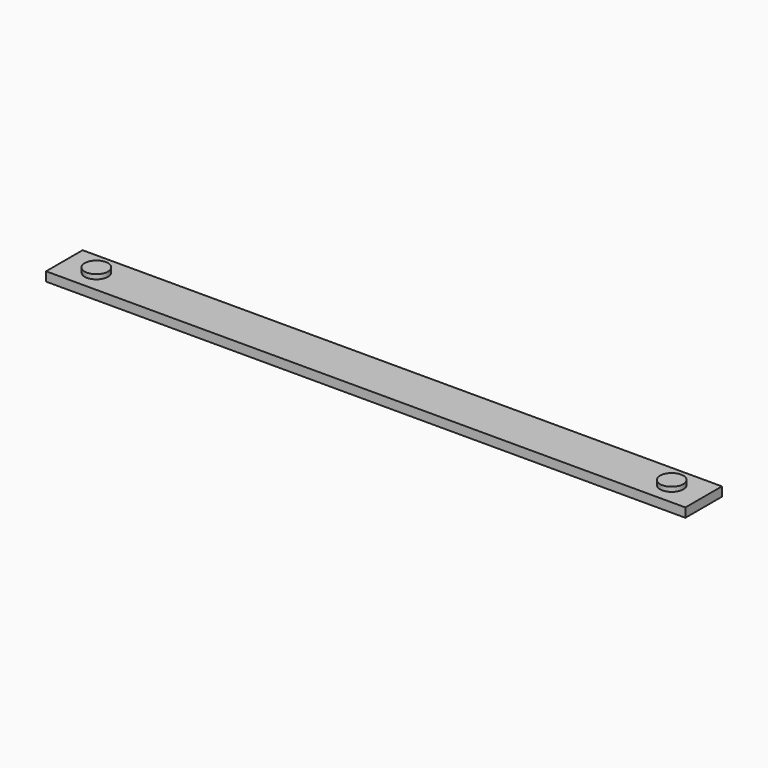
from build123d import *

# Parameters (mm, degrees)
SKETCH018_W  = 140
SKETCH018_H  = 10
PAD013_DEPTH = 2
SKETCH026_R  = 2.542055
PAD018_DEPTH = 1


with BuildPart() as part:
    # Sketch018 → Pad013 (new body)
    with BuildSketch(Plane.XY):
        with Locations((0, 20)):
            Rectangle(SKETCH018_W, SKETCH018_H)
    extrude(amount=-PAD013_DEPTH)

    # Sketch026 (on Face5 of Pad013) → Pad018 (join)
    with BuildSketch(Plane.XY):
        with Locations((-62.995332, 20.006431)):
            Circle(SKETCH026_R)
    pad018 = extrude(amount=PAD018_DEPTH)

    # Mirrored003: Pad018 across Sketch026 V_Axis
    add(pad018.mirror(Plane(origin=(0, 0, 0), x_dir=(0, 0, 1), z_dir=(1, 0, 0))))


solid = part.part
